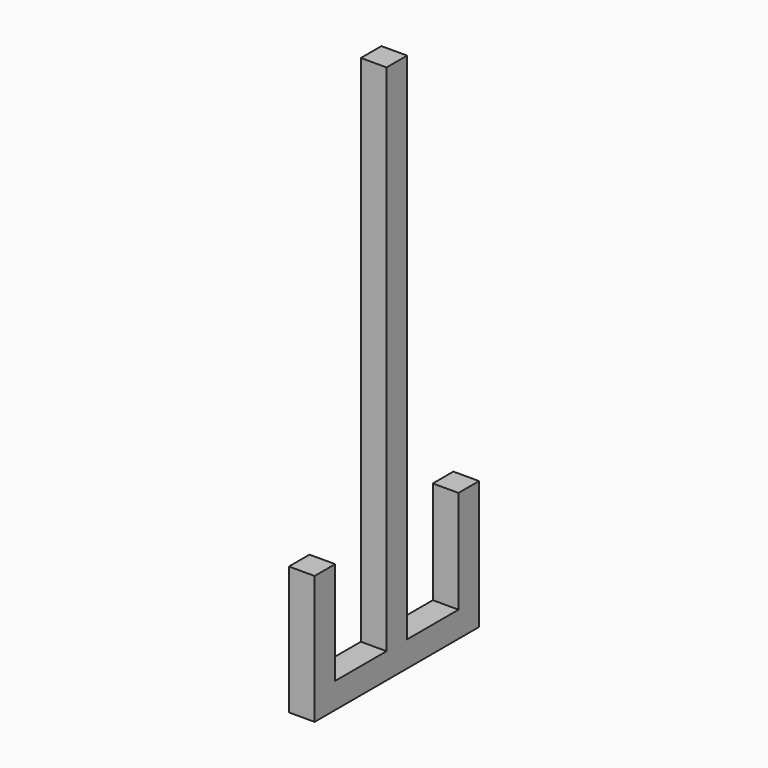
from build123d import *

# Parameters (mm, degrees)
F0_W          = 50
F0_H          = 50
F1_DEPTH      = 1000
F2_W          = 200
F2_H          = 50
F3_DEPTH      = 25
F3_DEPTH_BACK = 25
F4_W          = 50
F4_H          = 200
F5_DEPTH      = 25
F5_DEPTH_BACK = 25


with BuildPart() as f1:
    # F0 (on Top) → F1 (new body)
    with BuildSketch(Plane.XY):
        Rectangle(F0_W, F0_H)
    extrude(amount=F1_DEPTH)

    # F2 (on Right) → F3 (join, two sides)
    with BuildSketch(Plane.YZ) as f3_sk:
        with Locations((-100, -25)):
            Rectangle(F2_W, F2_H)
        with Locations((100, -25)):
            Rectangle(F2_W, F2_H)
    extrude(amount=F3_DEPTH)
    extrude(f3_sk.sketch, amount=-F3_DEPTH_BACK)

    # F4 (on Right) → F5 (join, two sides)
    with BuildSketch(Plane.YZ) as f5_sk:
        with Locations((175, 100)):
            Rectangle(F4_W, F4_H)
        with Locations((-175, 100)):
            Rectangle(F4_W, F4_H)
    extrude(amount=F5_DEPTH)
    extrude(f5_sk.sketch, amount=-F5_DEPTH_BACK)


solid = f1.part
